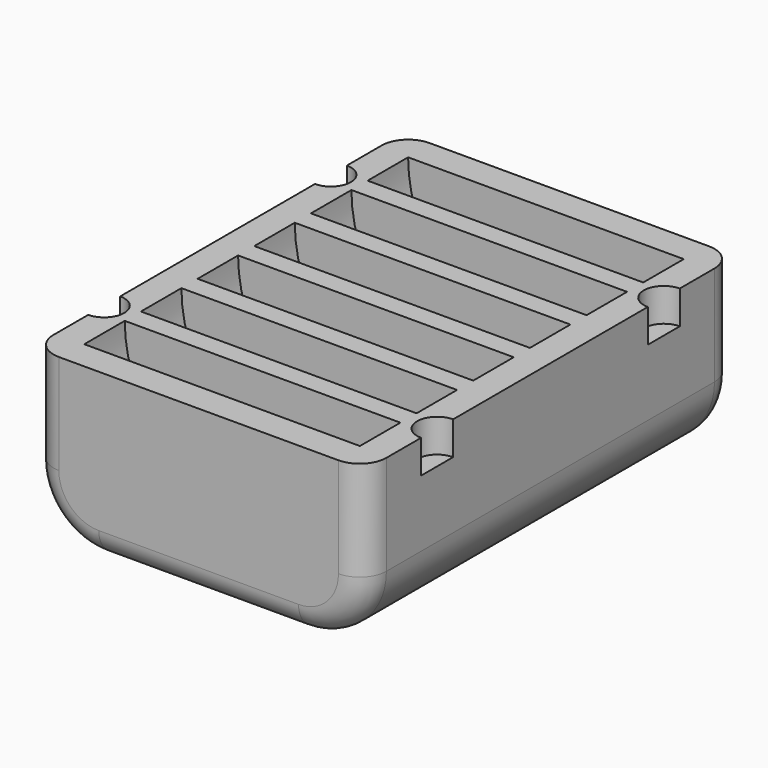
from build123d import *

# Parameters (mm, degrees)
F0_W     = 25
F0_H     = 34.8
F1_DEPTH = 12.5
F3_START = -2.2
F2_R     = 10.35
F3_DEPTH = 30.4
F4_W     = 20.7
F4_H     = 1.52
F5_DEPTH = 10.6
F6_R     = 5
F7_R     = 2
F8_R     = 1.5
F9_DEPTH = 2.5


with BuildPart() as f1:
    # F0 (on Top) → F1 (new body)
    with BuildSketch(Plane.XY):
        with Locations((-17.5982150249, -9.7193448131)):
            Rectangle(F0_W, F0_H)
    extrude(amount=F1_DEPTH)

    # F2 (on face) → F3 (cut)
    with BuildSketch(Plane.XZ.offset(27.1193448131).offset(F3_START)):
        with Locations((-17.5982150249, 12.5)):
            Circle(F2_R)
    extrude(amount=-F3_DEPTH, mode=Mode.SUBTRACT)

    # F4 (on face) → F5 (join)
    with BuildSketch(Plane.XY.offset(12.5)):
        with Locations((-17.5982150249, 0.9206551869)):
            Rectangle(F4_W, F4_H)
        with Locations((-17.5982150249, -4.3993448131)):
            Rectangle(F4_W, F4_H)
        with Locations((-17.5982150249, -9.7193448131)):
            Rectangle(F4_W, F4_H)
        with Locations((-17.5982150249, -15.0393448131)):
            Rectangle(F4_W, F4_H)
        with Locations((-17.5982150249, -20.3593448131)):
            Rectangle(F4_W, F4_H)
    extrude(amount=-F5_DEPTH)

    # F6
    f6_edges = [f1.edges().sort_by_distance(p)[0] for p in [
        (-5.098215, -9.719345, 0),
        (-30.098215, -9.719345, 0),
    ]]
    fillet(f6_edges, radius=F6_R)

    # F7
    f7_edges = [f1.edges().sort_by_distance(p)[0] for p in [
        (-5.098215, -27.119345, 8.75),
        (-5.098215, 7.680655, 8.75),
    ]]
    fillet(f7_edges, radius=F7_R)

    # F8 (on face) → F9 (cut)
    with BuildSketch(Plane.XY.offset(12.5)):
        with Locations((-30.0982150249, 0.9206551869)):
            Circle(F8_R)
        with Locations((-5.0982150249, 0.9206551869)):
            Circle(F8_R)
        with Locations((-5.0982150249, -20.3593448131)):
            Circle(F8_R)
        with Locations((-30.0982150249, -20.3593448131)):
            Circle(F8_R)
    extrude(amount=-F9_DEPTH, mode=Mode.SUBTRACT)


solid = f1.part
